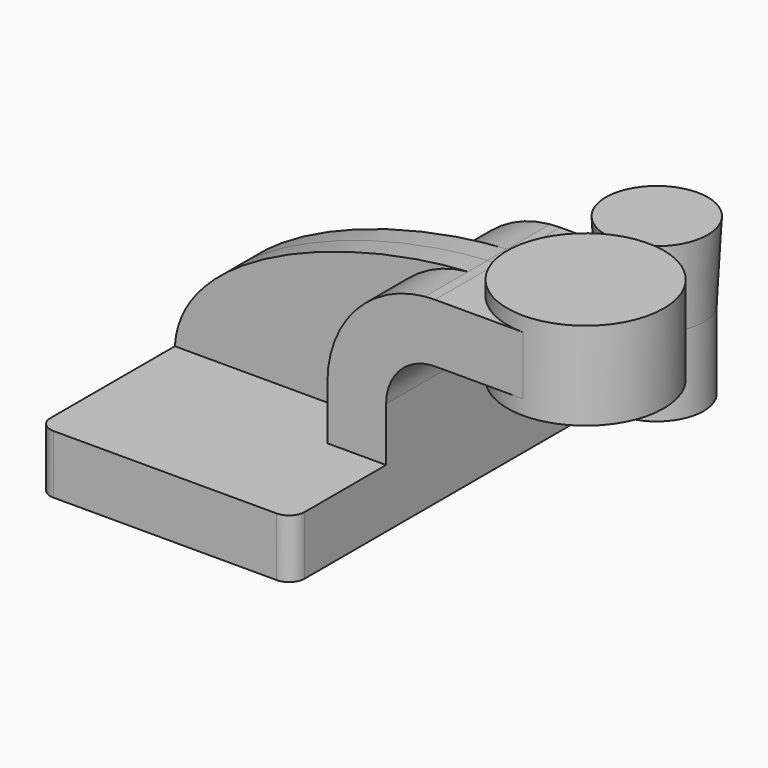
from build123d import *

# Parameters (mm, degrees)
F1_DEPTH      = 63.5
F0_W          = 25.4
F0_H          = 19.05
F2_DEPTH      = 25.4
F3_DEPTH      = 7.9375
F5_R          = 5.08
F6_R          = 15.212436643
F7_DEPTH      = 25.4
F7_DEPTH_BACK = 25.4
F7_TAPER_BACK = -3


with BuildPart() as f1:
    # F0 (on Front) → F1 (new body, symmetric)
    with BuildSketch(Plane.XZ):
        Polygon((22.225, 9.525), (-41.275, 9.525), (-41.275, -9.525), (41.275, -9.525), (41.275, 9.525), align=None)
    extrude(amount=F1_DEPTH, both=True)

    # F0 (on Front) → F2 (join, symmetric)
    with BuildSketch(Plane.XZ):
        with BuildLine():
            Line((22.225, 27.0002), (22.225, 9.525))
            Line((22.225, 9.525), (41.275, 9.525))
            Line((41.275, 9.525), (41.275, 27.0002))
            ThreePointArc((41.275, 27.0002), (45.9246798487, 38.2255201513), (57.15, 42.8752))
            Line((57.15, 42.8752), (60.325, 42.8752))
            Line((60.325, 42.8752), (60.325, 61.9252))
            Line((60.325, 61.9252), (57.15, 61.9252))
            add(Edge.make_bspline(
                [(53.8854342407, 61.7722898912), (54.9842067368, 61.8365871986), (56.0728453275, 61.8876096574), (57.15, 61.9252)],
                knots=[108.5245810491, 108.5245810491, 108.5245810491, 108.5245810491, 111.5045361635, 111.5045361635, 111.5045361635, 111.5045361635], degree=3))
            ThreePointArc((53.8854342407, 61.7722898912), (31.3258777096, 50.5133948686), (22.225, 27.0002))
        make_face()
        with Locations((73.025, 52.4002)):
            Rectangle(F0_W, F0_H)
    extrude(amount=F2_DEPTH, both=True)

    # F0 (on Front) → F3 (join, symmetric)
    with BuildSketch(Plane.XZ):
        with BuildLine():
            add(Edge.make_bspline(
                [(-41.275, 9.525), (-39.5856284224, 39.4828766469), (13.870125209, 59.4306981306), (53.8854342407, 61.7722898912)],
                knots=[0, 0, 0, 0, 108.5245810491, 108.5245810491, 108.5245810491, 108.5245810491], degree=3))
            Line((-41.275, 9.525), (22.225, 9.525))
            Line((22.225, 9.525), (22.225, 27.0002))
            ThreePointArc((22.225, 27.0002), (31.3258777096, 50.5133948686), (53.8854342407, 61.7722898912))
        make_face()
    extrude(amount=F3_DEPTH, both=True)

    # F0 (on Front) → F4 (revolve)
    with BuildSketch(Plane.XZ):
        Polygon((85.725, 66.675), (85.725, 61.9252), (85.725, 42.8752), (85.725, 38.1), (111.125, 38.1), (111.125, 66.675), align=None)
    revolve(axis=Axis((85.725, 0, 52.3875), (0, 0, 1)))

    # F5
    f5_edges = [f1.edges().sort_by_distance(p)[0] for p in [
        (41.275, -63.5, 0),
        (-41.275, -63.5, 0),
        (41.275, 63.5, 0),
        (-41.275, 63.5, 0),
    ]]
    fillet(f5_edges, radius=F5_R)


with BuildPart() as f7:
    # F6 (on Top) → F7 (new body, two sides)
    with BuildSketch(Plane.XY) as f7_sk:
        with Locations((28.5174716264, 100.377060473)):
            Circle(F6_R)
    extrude(amount=-F7_DEPTH)
    extrude(f7_sk.sketch, amount=F7_DEPTH_BACK, taper=F7_TAPER_BACK)


solid = Compound([f1.part, f7.part])
